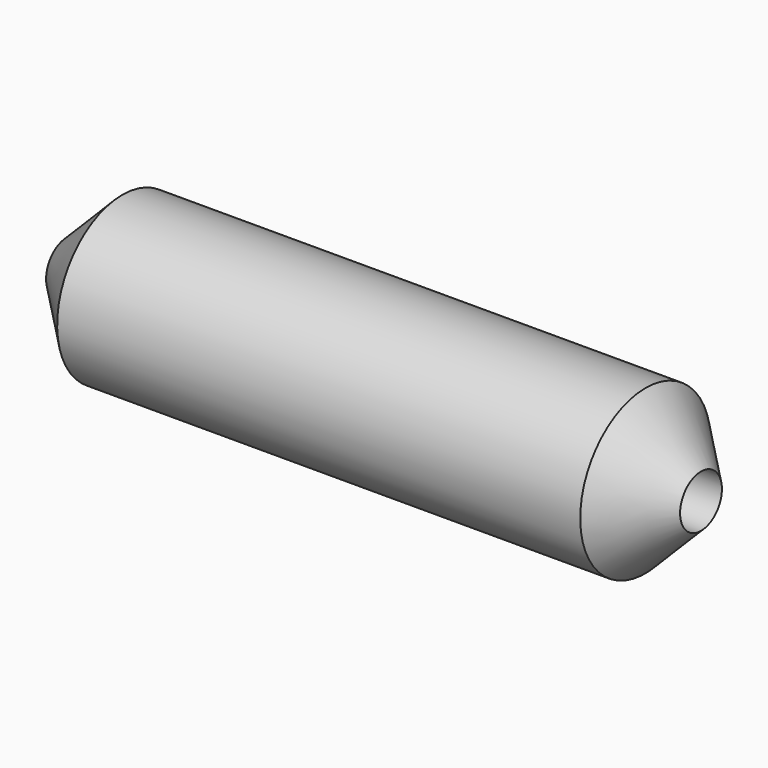
from build123d import *

# Parameters (mm, degrees)
F0_W = 33
F0_H = 3.5


with BuildPart() as f1:
    # F0 (on Front) → F1 (revolve)
    with BuildSketch(Plane.XZ):
        Polygon((3.5, 3.5), (0, 0), (3.5, 0), align=None)
        with Locations((20, 1.75)):
            Rectangle(F0_W, F0_H)
        Polygon((36.5, 3.5), (36.5, 0), (40, 0), align=None)
    revolve(axis=Axis((20, 0, -1.65), (1, 0, 0)))


solid = f1.part
